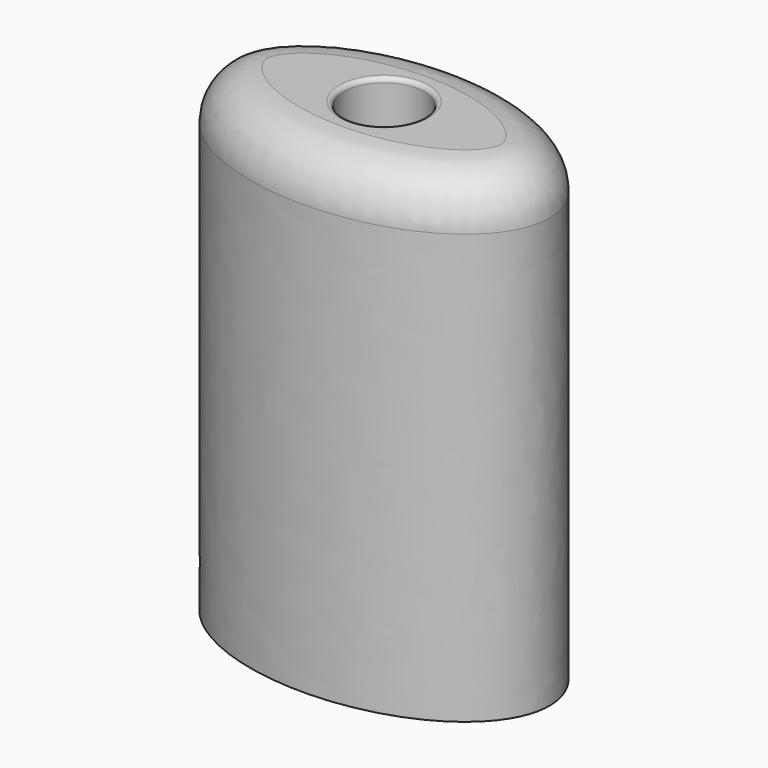
from build123d import *

# Parameters (mm, degrees)
F0_R     = 2.18214
F1_DEPTH = 26
F2_R     = 2.655635
F3_R     = 0.241421


with BuildPart() as f1:
    # F0 (on Top) → F1 (new body)
    with BuildSketch(Plane.XY):
        with BuildLine():
            add(Edge.make_bspline(
                [(0, 5.564505), (-15.588457, 5.564505), (-7.794229, -2.782252), (0, -11.129009), (7.794229, -2.782252), (15.588457, 5.564505), (0, 5.564505)],
                knots=[4.712389, 4.712389, 4.712389, 6.806784, 6.806784, 8.901179, 8.901179, 10.995574, 10.995574, 10.995574], degree=2, weights=[1, 0.5, 1, 0.5, 1, 0.5, 1]))
        make_face()
        Circle(F0_R, mode=Mode.SUBTRACT)
    extrude(amount=F1_DEPTH)

    # F2
    f2_edges = [f1.edges().sort_by_distance(p)[0] for p in [
        (0, -5.564505, 26),
    ]]
    fillet(f2_edges, radius=F2_R)

    # F3
    f3_edges = [f1.edges().sort_by_distance(p)[0] for p in [
        (-2.18214, 0, 26),
    ]]
    fillet(f3_edges, radius=F3_R)


solid = f1.part
